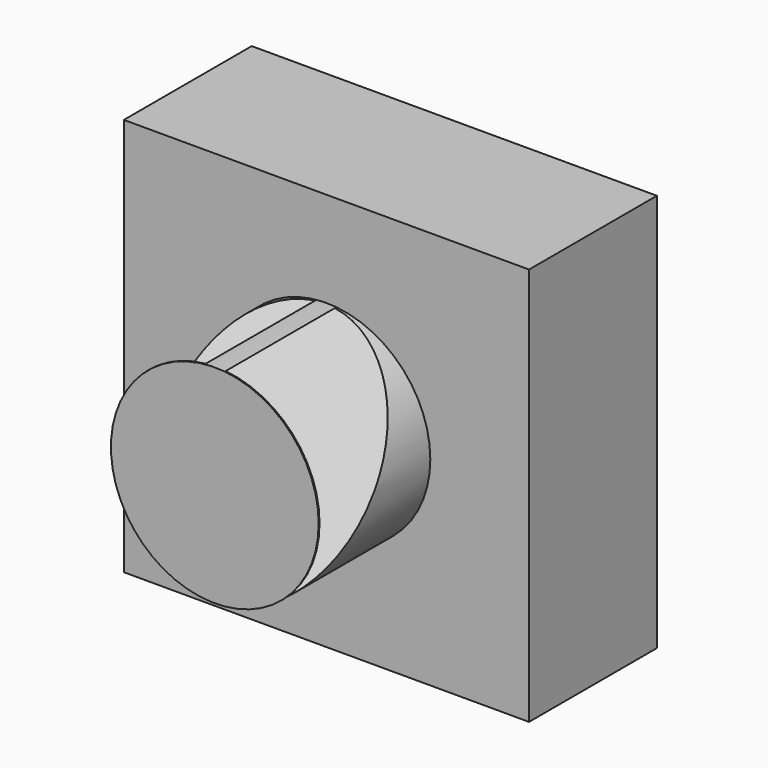
from build123d import *

# Parameters (mm, degrees)
F0_W     = 96.598558
F0_H     = 94.948866
F1_DEPTH = 38.1
F2_R     = 24.762498
F3_DEPTH = 33.274
F5_DEPTH = 635


with BuildPart() as f1:
    # F0 (on Front) → F1 (new body)
    with BuildSketch(Plane.XZ):
        Rectangle(F0_W, F0_H)
    extrude(amount=F1_DEPTH)

    # F2 (on face) → F3 (join)
    with BuildSketch(Plane.XZ.offset(38.1)):
        Circle(F2_R)
    extrude(amount=F3_DEPTH)

    # F4 (on Right) → F5 (cut, symmetric)
    with BuildSketch(Plane.YZ):
        Polygon((-71.105659, 24.648242), (-71.105659, -24.648242), (-38.585469, 24.648242), align=None)
    extrude(amount=F5_DEPTH, both=True, mode=Mode.SUBTRACT)


solid = f1.part
